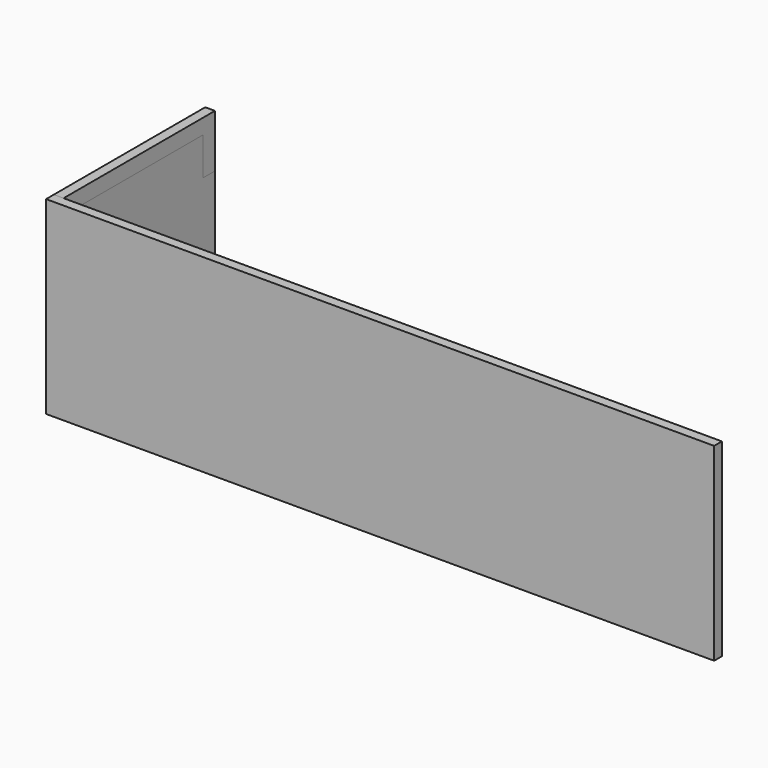
from build123d import *

# Parameters (mm, degrees)
F1_W      = 350
F1_H      = 350
F2_DEPTH  = 18
F3_W      = 28
F3_H      = 70
F4_DEPTH  = 1200
F6_DEPTH  = 18
F7_W      = 1236
F7_H      = 350
F8_DEPTH  = 18
F9_W      = 618
F9_H      = 373
F10_DEPTH = 18


with BuildPart() as f2:
    # F1 (on Right) → F2 (new body)
    with BuildSketch(Plane.YZ):
        with Locations((175, 175)):
            Rectangle(F1_W, F1_H)
    extrude(amount=F2_DEPTH)


with BuildPart() as f4:
    # F3 (on Right) → F4 (new body)
    with BuildSketch(Plane.YZ):
        with Locations((14, 35)):
            Rectangle(F3_W, F3_H)
    extrude(amount=F4_DEPTH)


with BuildPart() as f6:
    # F5 (on Right) → F6 (new body)
    with BuildSketch(Plane.YZ):
        Polygon((0, 322), (0, 0), (350, 0), (350, 252), (322, 252), (322, 322), align=None)
    extrude(amount=F6_DEPTH)


with BuildPart() as f8:
    # F7 (on Front) → F8 (new body)
    with BuildSketch(Plane.XZ):
        with Locations((618, 175)):
            Rectangle(F7_W, F7_H)
    extrude(amount=F8_DEPTH)


with BuildPart() as f10:
    # F9 (on Top) → F10 (new body)
    with BuildSketch(Plane.XY):
        with Locations((309, 186.5)):
            Rectangle(F9_W, F9_H)
    extrude(amount=F10_DEPTH)


solid = Compound([f2.part, f4.part, f6.part, f8.part, f10.part])
